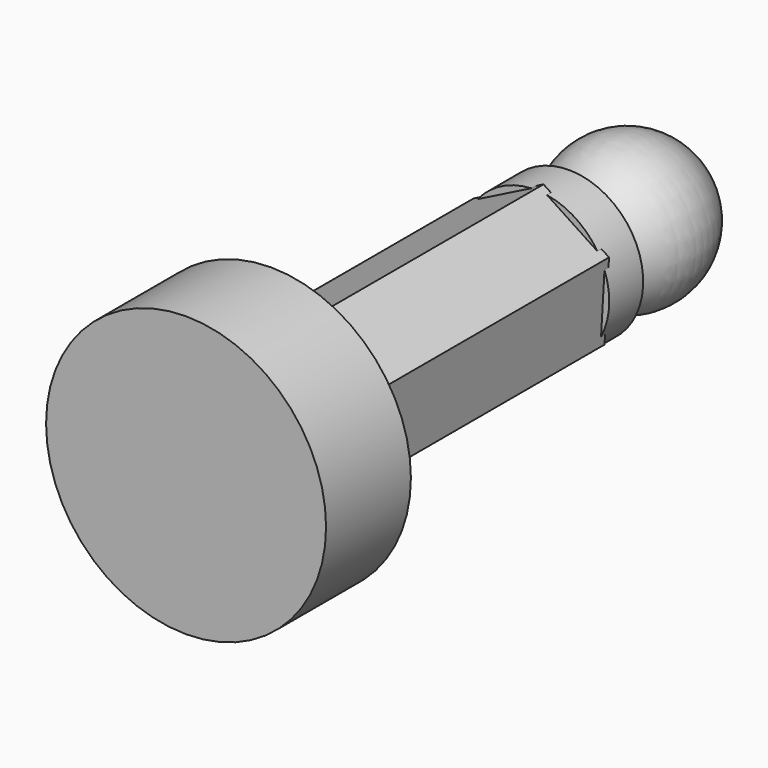
from build123d import *

# Parameters (mm, degrees)
F3_DEPTH = 26.416
F2_R     = 8.382
F4_DEPTH = 6.35


with BuildPart() as f1:
    # F0 (on Top) → F1 (revolve)
    with BuildSketch(Plane.XY):
        with BuildLine():
            Line((0, 28.657248), (0, 37.445775))
            ThreePointArc((0, 37.445775), (-4.419559, 33.475669), (-0.944353, 28.657248))
            Line((-0.944353, 28.657248), (-4.445, 28.657248))
            Line((-4.445, 28.657248), (-4.445, 26.117248))
            Line((-4.445, 26.117248), (0, 26.117248))
            Line((0, 26.117248), (0, 28.555775))
            Line((0, 28.555775), (0, 28.657248))
        make_face()
    revolve(axis=Axis((0, 33.000775, 0), (0, -1, 0)))

    # F2 (on Front) → F3 (join)
    with BuildSketch(Plane.XZ):
        Polygon((-4.192043, -2.109085), (-0.269501, -4.684958), (3.922542, -2.575873), (4.192043, 2.109085), (0.269501, 4.684958), (-3.922542, 2.575873), align=None)
    extrude(amount=-F3_DEPTH)

    # F2 (on Front) → F4 (join)
    with BuildSketch(Plane.XZ):
        Circle(F2_R)
        Polygon((3.922542, -2.575873), (-0.269501, -4.684958), (-4.192043, -2.109085), (-3.922542, 2.575873), (0.269501, 4.684958), (4.192043, 2.109085), align=None, mode=Mode.SUBTRACT)
    extrude(amount=-F4_DEPTH)


solid = f1.part
